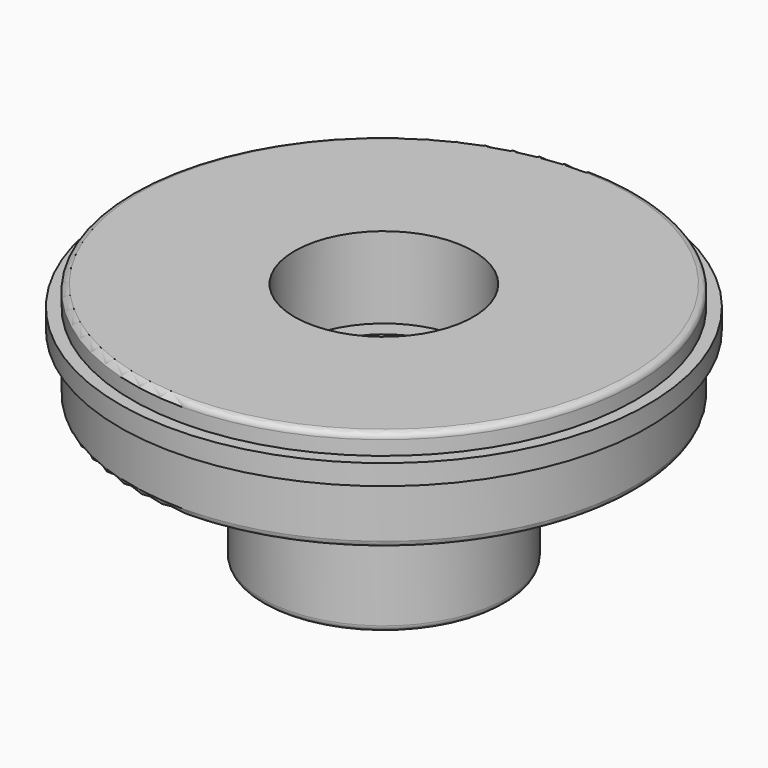
from build123d import *

# Parameters (mm, degrees)
F2_R = 0.3


with BuildPart() as f1:
    # F0 (on Front) → F1 (revolve)
    with BuildSketch(Plane.XZ):
        Polygon((-6, 0), (-3.5, 0), (-3.5, 8.000001), (-4.4, 8.000001), (-4.4, 12), (-12.4, 12), (-12.4, 11), (-13, 11), (-13, 10), (-12.4, 10), (-12.4, 7), (-7.203946, 7), (-6, 5.550987), align=None)
    revolve(axis=Axis((0, 0, 7.469198), (0, 0, 1)))

    # F2
    f2_edges = [f1.edges().sort_by_distance(p)[0] for p in [
        (12.4, 0, 12),
        (12.4, 0, 7),
        (6, 0, 0),
    ]]
    fillet(f2_edges, radius=F2_R)


solid = f1.part
